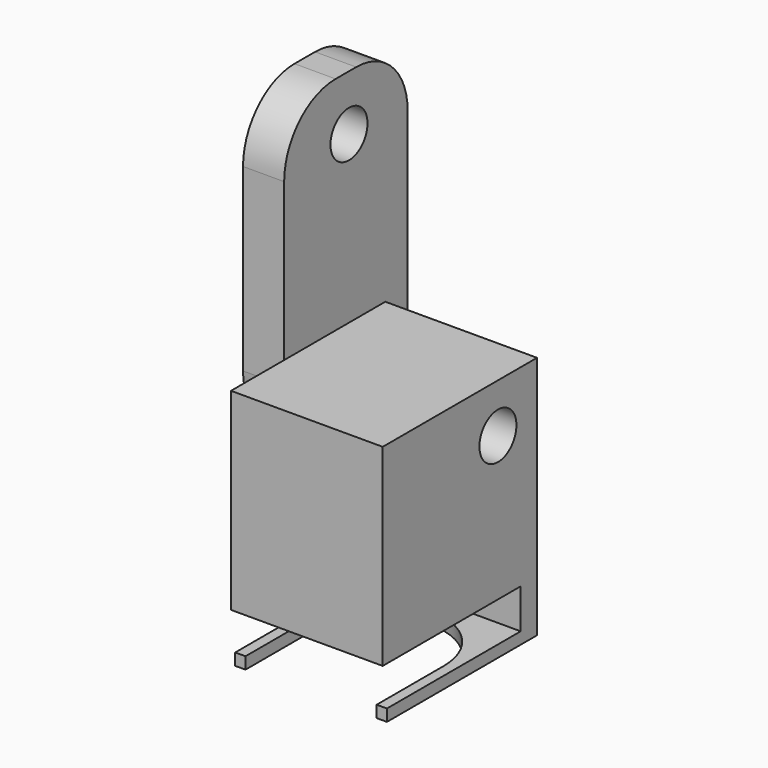
from build123d import *

# Parameters (mm, degrees)
F0_W      = 11.8
F0_H      = 15
F1_DEPTH  = 15
F2_R      = 1.8
F3_DEPTH  = 25
F4_W      = 12
F4_H      = 24
F4_R      = 1.8
F5_DEPTH  = 3.2
F6_R      = 5
F7_W      = 11.8
F7_H      = 1.589112
F8_DEPTH  = 4
F9_W      = 11.8
F9_H      = 0.918874
F10_DEPTH = 13
F12_DEPTH = 2


with BuildPart() as f1:
    # F0 (on Front) → F1 (new body)
    with BuildSketch(Plane.XZ):
        with Locations((5.9, 7.5)):
            Rectangle(F0_W, F0_H)
    extrude(amount=F1_DEPTH)

    # F2 (on face) → F3 (cut)
    with BuildSketch(Plane(origin=(0, 0, 0), x_dir=(0, -1, 0), z_dir=(-1, 0, 0))):
        with Locations((3.8, 11.2)):
            Circle(F2_R)
    extrude(amount=-F3_DEPTH, mode=Mode.SUBTRACT)

    # F7 (on face) → F8 (join)
    with BuildSketch(Plane(origin=(0, 0, 0), x_dir=(1, 0, 0), z_dir=(0, 0, -1))):
        with Locations((5.9, 0.794556)):
            Rectangle(F7_W, F7_H)
    extrude(amount=F8_DEPTH)

    # F9 (on face) → F10 (join)
    with BuildSketch(Plane.XZ.offset(1.589112)):
        with Locations((5.9, -3.540563)):
            Rectangle(F9_W, F9_H)
    extrude(amount=F10_DEPTH)

    # F11 (on face) → F12 (cut)
    with BuildSketch(Plane(origin=(0, 0, -4), x_dir=(1, 0, 0), z_dir=(0, 0, -1))):
        with BuildLine():
            Line((11, 14.589112), (0.8, 14.589112))
            Line((0.8, 14.589112), (0.8, 8.058546))
            ThreePointArc((0.8, 8.058546), (5.9, 2.958546), (11, 8.058546))
            Line((11, 8.058546), (11, 14.589112))
        make_face()
    extrude(amount=-F12_DEPTH, mode=Mode.SUBTRACT)


with BuildPart() as f5:
    # F4 (on face) → F5 (new body)
    with BuildSketch(Plane(origin=(0, 0, 0), x_dir=(0, -1, 0), z_dir=(-1, 0, 0))):
        with Locations((3.829613, 20.216454)):
            Rectangle(F4_W, F4_H)
        with Locations((3.529613, 11.916554)):
            Circle(F4_R, mode=Mode.SUBTRACT)
        with Locations((3.529613, 27.916454)):
            Circle(F4_R, mode=Mode.SUBTRACT)
    extrude(amount=F5_DEPTH)

    # F6
    f6_edges = [f5.edges().sort_by_distance(p)[0] for p in [
        (-1.6, 2.170387, 32.216454),
        (-1.6, -9.829613, 32.216454),
        (-1.6, -9.829613, 8.216454),
        (-1.6, 2.170387, 8.216454),
    ]]
    fillet(f6_edges, radius=F6_R)


solid = Compound([f1.part, f5.part])
